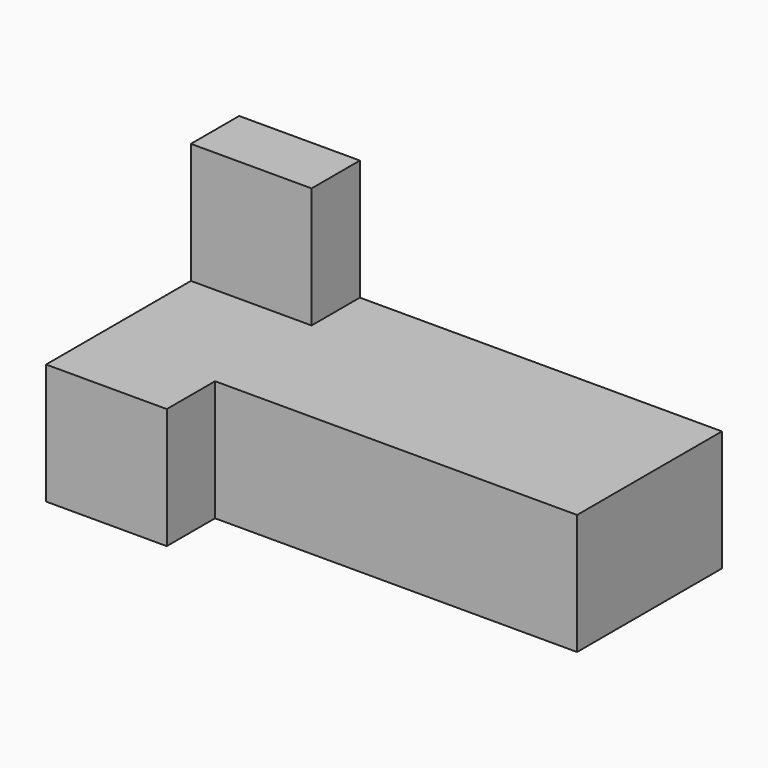
from build123d import *

# Parameters (mm, degrees)
F0_W     = 50.8
F0_H     = 101.6
F1_DEPTH = 50.8
F2_W     = 50.8
F2_H     = 25.4
F3_DEPTH = 50.8
F5_DEPTH = 152.4
F6_W     = 152.4
F6_H     = 50.8
F7_DEPTH = 25.4


with BuildPart() as f1:
    # F0 (on Top) → F1 (new body)
    with BuildSketch(Plane.XY):
        with Locations((-106.38359, 33.388032)):
            Rectangle(F0_W, F0_H)
    extrude(amount=F1_DEPTH)

    # F2 (on face) → F3 (join)
    with BuildSketch(Plane.XY.offset(50.8)):
        with Locations((-106.38359, 71.488032)):
            Rectangle(F2_W, F2_H)
    extrude(amount=F3_DEPTH)

    # F4 (on face) → F5 (join)
    with BuildSketch(Plane.YZ.offset(-80.98359)):
        Polygon((58.788032, 50.8), (7.988032, 50.8), (7.988032, 0), (84.188032, 0), (84.188032, 101.6), (58.788032, 101.6), align=None)
    extrude(amount=F5_DEPTH)

    # F6 (on face) → F7 (cut)
    with BuildSketch(Plane.XZ.offset(-58.788032)):
        with Locations((-4.78359, 76.2)):
            Rectangle(F6_W, F6_H)
    extrude(amount=-F7_DEPTH, mode=Mode.SUBTRACT)


solid = f1.part
